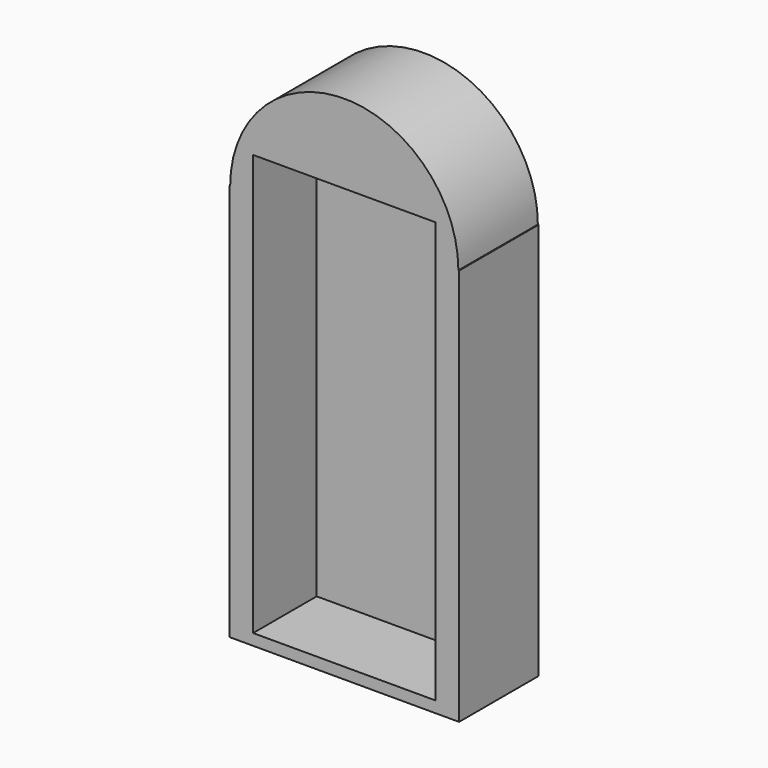
from build123d import *

# Parameters (mm, degrees)
F1_DEPTH = 25.4
F2_W     = 46.624532
F2_H     = 107.63935
F3_DEPTH = 20.32


with BuildPart() as f1:
    # F0 (on Front) → F1 (new body)
    with BuildSketch(Plane.XZ):
        with BuildLine():
            Line((-58.536911, 25.614712), (-58.712374, 25.614712))
            Line((-58.712374, 25.614712), (-58.712374, -75.980723))
            Line((-58.712374, -75.980723), (0, -75.980723))
            Line((0, -75.980723), (0, 25.614712))
            Line((0, 25.614712), (-0.175463, 25.614712))
            ThreePointArc((-0.175463, 25.614712), (-29.356187, 54.795436), (-58.536911, 25.614712))
        make_face()
    extrude(amount=F1_DEPTH)

    # F2 (on face) → F3 (cut)
    with BuildSketch(Plane.XZ.offset(25.4)):
        with Locations((-29.356186, -19.282985)):
            Rectangle(F2_W, F2_H)
    extrude(amount=-F3_DEPTH, mode=Mode.SUBTRACT)


solid = f1.part
